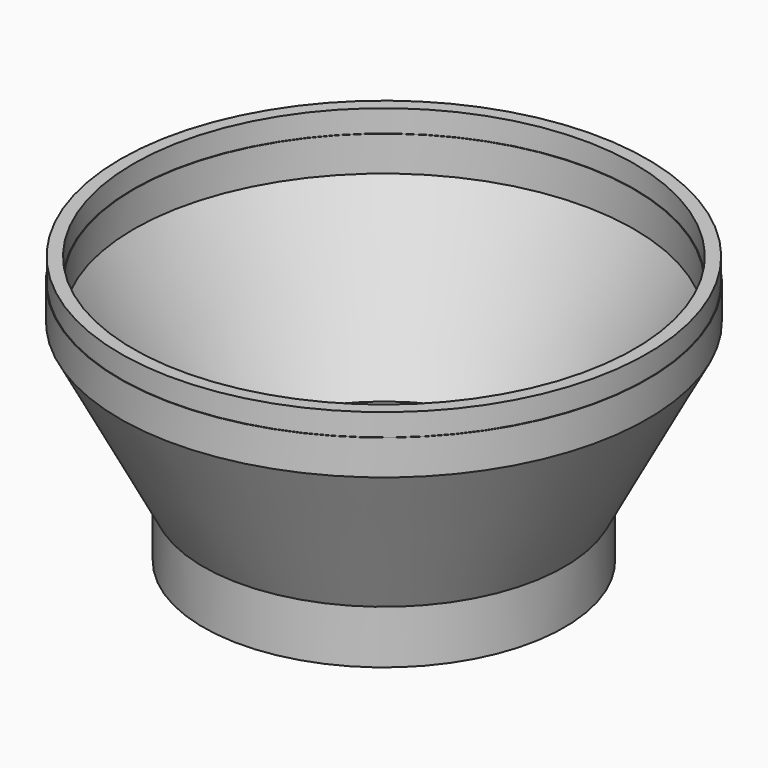
from build123d import *


with BuildPart() as f1:
    # F0 (on Front) → F1 (revolve)
    with BuildSketch(Plane.XZ):
        Polygon((-301, -248.865593), (-300, -248.865593), (-300, -152.865593), (-450, 130.134407), (-450, 193.134407), (-451, 193.134407), (-451, 233.134407), (-474, 233.134407), (-474, 193.134407), (-475, 193.134407), (-475, 130.134407), (-325, -152.865593), (-325, -248.865593), (-324, -248.865593), (-324, -208.865593), (-301, -208.865593), align=None)
    revolve(axis=Axis((0, 0, -0.829662), (0, 0, -1)))


solid = f1.part
